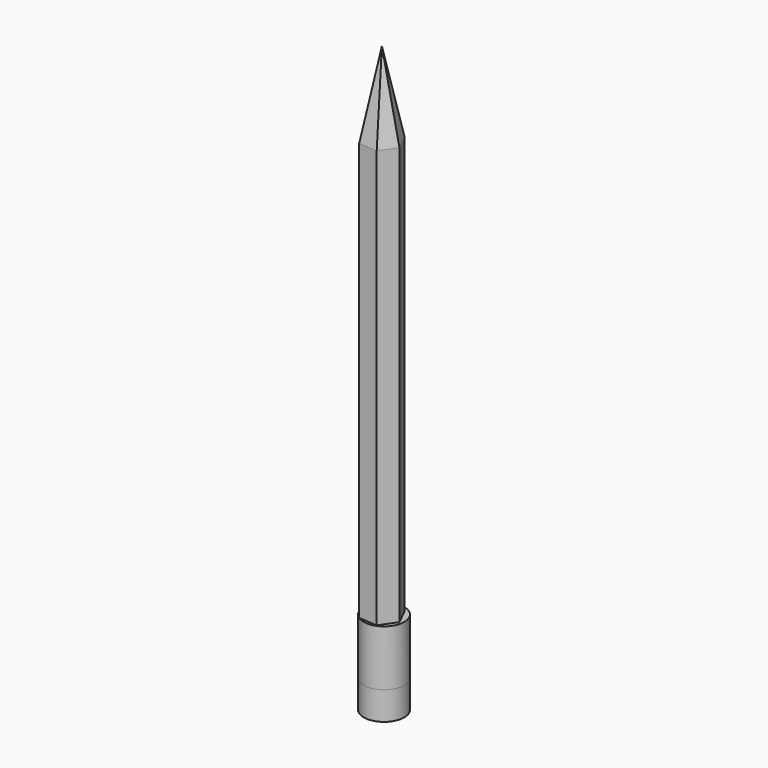
from build123d import *

# Parameters (mm, degrees)
F1_DEPTH = 165.354
F2_R     = 8.0249710932
F3_DEPTH = 22.098
F4_DEPTH = 34.544
F4_TAPER = 11
F5_R     = 8.0249710932
F6_DEPTH = 11.176


with BuildPart() as f1:
    # F0 (on Top) → F1 (new body)
    with BuildSketch(Plane.XY):
        Polygon((-62.5752878926, -6.6125056397), (-58.4658610084, -0.5052305136), (-61.7002029734, 6.107275126), (-69.0439718225, 6.6125056397), (-73.1533987067, 0.5052305136), (-69.9190567417, -6.107275126), align=None)
    extrude(amount=F1_DEPTH)

    # F2 (on face) → F3 (join)
    with BuildSketch(Plane(origin=(0, 0, 0), x_dir=(1, 0, 0), z_dir=(0, 0, -1))):
        with Locations((-65.372087398, -0.5052305136)):
            Circle(F2_R)
    extrude(amount=F3_DEPTH)

    # F1_face1 (on face) → F4 (join)
    with BuildSketch(Plane(origin=(-65.8096298575, 0, 165.354), x_dir=(1, 0, 0), z_dir=(0, 0, 1))):
        Polygon((-7.3437688491, 0.5052305136), (-4.1094268841, -6.107275126), (3.234341965, -6.6125056397), (7.3437688491, -0.5052305136), (4.1094268841, 6.107275126), (-3.234341965, 6.6125056397), align=None)
    extrude(amount=F4_DEPTH, taper=F4_TAPER)


with BuildPart() as f6:
    # F5 (on face) → F6 (new body)
    with BuildSketch(Plane(origin=(0, 0, -22.098), x_dir=(1, 0, 0), z_dir=(0, 0, -1))):
        with Locations((-65.372087398, -0.5052305136)):
            Circle(F5_R)
    extrude(amount=F6_DEPTH)


solid = Compound([f1.part, f6.part])
